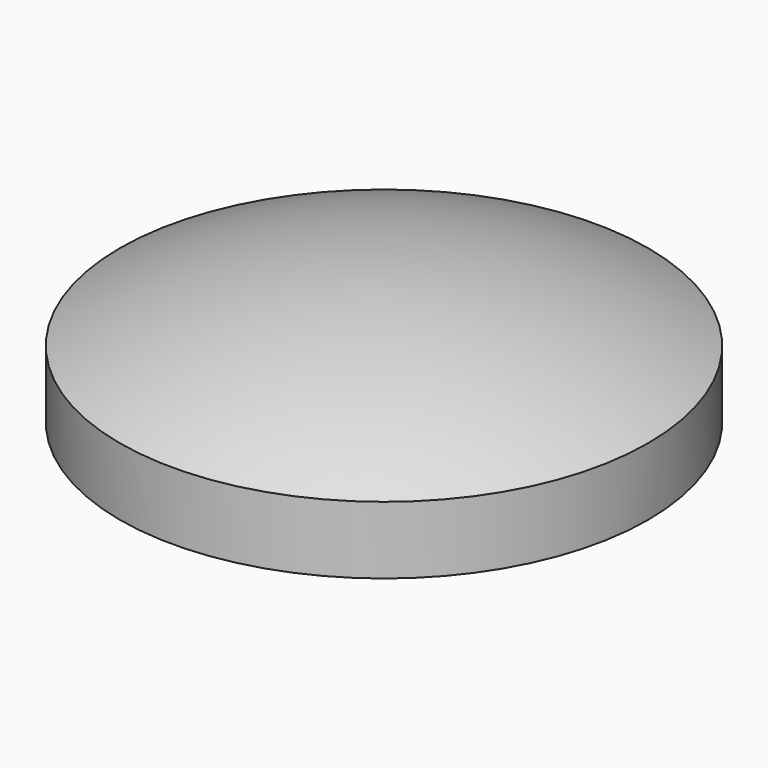
from build123d import *

# Parameters (mm, degrees)
CYLINDER_R     = 20
CYLINDER_DEPTH = 200


with BuildPart() as cylinder:
    # Cylinder → Cylinder (new body)
    with BuildSketch(Plane.XY.offset(-100)):
        Circle(CYLINDER_R)
    extrude(amount=CYLINDER_DEPTH)


with BuildPart() as sphere001:
    # Sphere001 → Sphere001 (revolve)
    with BuildSketch(Plane(origin=(0, 0, -36.754386), x_dir=(1, 0, 0), z_dir=(0, -1, 0))):
        with BuildLine():
            ThreePointArc((0, -44.105263), (44.105263, 0), (0, 44.105263))
            Line((0, 44.105263), (0, -44.105263))
        make_face()
    revolve(axis=Axis((0, 0, -36.754386), (0, 0, 1)))


with BuildPart() as common001:
    # Sphere → Sphere (revolve)
    with BuildSketch(Plane(origin=(0, 0, 36.754386), x_dir=(1, 0, 0), z_dir=(0, -1, 0))):
        with BuildLine():
            ThreePointArc((0, -44.105263), (44.105263, 0), (0, 44.105263))
            Line((0, 44.105263), (0, -44.105263))
        make_face()
    revolve(axis=Axis((0, 0, 36.754386), (0, 0, 1)))

    # Common: intersect Sphere001
    add(sphere001.part, mode=Mode.INTERSECT)

    # Common001: intersect Cylinder
    add(cylinder.part, mode=Mode.INTERSECT)


with BuildPart() as common001_1:
    # Common001 placement: moved
    add(common001.part.moved(Location((0, 0, -50))))


solid = common001_1.part
